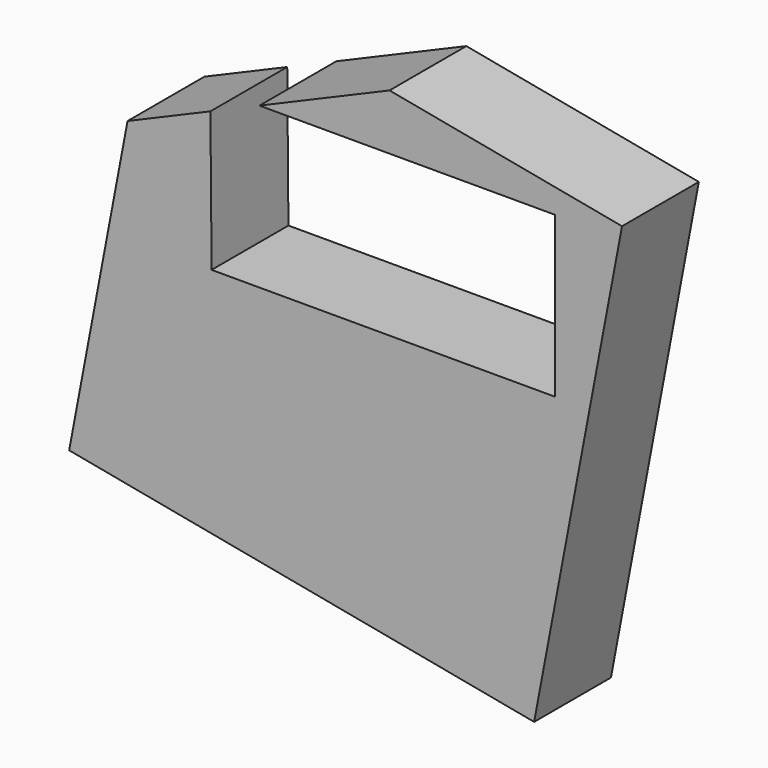
from build123d import *

# Parameters (mm, degrees)
F2_DEPTH = 25.4


with BuildPart() as f2:
    # F1 (on face) → F2 (new body)
    with BuildSketch(Plane.XZ):
        Polygon((71.625658, 37.360118), (10.129079, 48.983187), (-24.275168, 34.258395), (53.95928, 34.258395), (53.95928, -8.110635), (-36.935002, -8.110635), (-37.249668, 28.705395), (-59.170064, 19.32361), (-74.613637, -62.386901), (48.37952, -85.633039), align=None)
    extrude(amount=F2_DEPTH)


solid = f2.part
